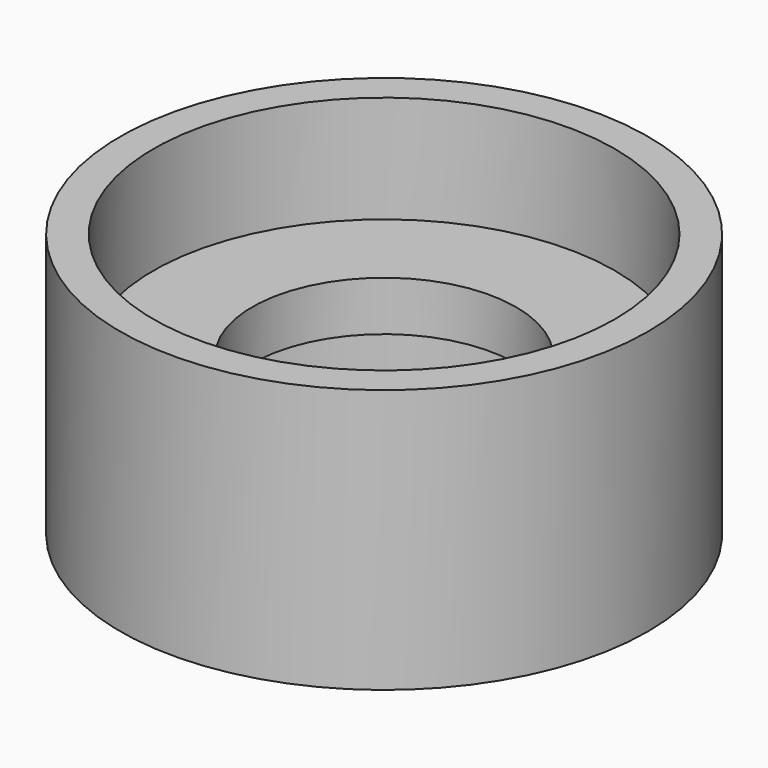
from build123d import *


with BuildPart() as f1:
    # F0 (on Front) → F1 (revolve)
    with BuildSketch(Plane.XZ):
        Polygon((11.0998, 5.1562), (11.0998, 0), (12.7, 0), (12.7, 12.7), (11.0998, 12.7), (11.0998, 7.5438), (6.35, 7.5438), (6.35, 5.1562), align=None)
        Polygon((11.0998, 5.1562), (11.0998, 0), (12.7, 0), (12.7, 12.7), (11.0998, 12.7), (11.0998, 7.5438), (6.35, 7.5438), (6.35, 5.1562), align=None)
    revolve(axis=Axis((0, 0, 12.060359), (0, 0, 1)))


solid = f1.part
